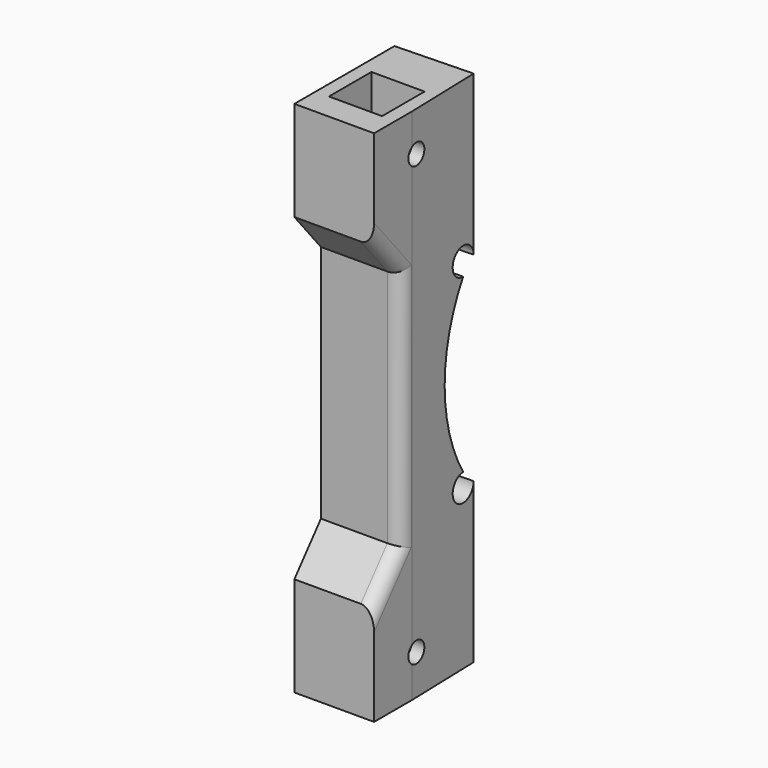
from build123d import *

# Parameters (mm, degrees)
PAD_DEPTH       = 80
POCKET_DEPTH    = 78
POCKET001_DEPTH = 408.7079232475
POCKET002_DEPTH = 408.4326470939
SKETCH004_W     = 433.609177
SKETCH004_H     = 149.2376851805
SKETCH004_W_2   = 114.034424
SKETCH004_H_2   = 150.6867891805
POCKET003_DEPTH = 80.001
SKETCH005_W     = 8
SKETCH005_H     = 8
POCKET004_DEPTH = 10
SKETCH006_W     = 8
SKETCH006_H     = 8
POCKET005_DEPTH = 10
SKETCH007_R     = 1.55
POCKET006_DEPTH = 12.001
POCKET007_DEPTH = 12.001
FILLET_R        = 2
FILLET001_R     = 2


with BuildPart() as part:
    # Sketch → Pad (new body)
    with BuildSketch(Plane.XY):
        Polygon((450, 0), (450, 90), (356, 87.18), (355.64, 99.18), (343.64, 98.82), (344, 86.82), (6, 76.68), (5.64, 88.6800000001), (-6.36, 88.3200000001), (-6, 76.32), (-50, 75), (-50, 0), align=None)
    extrude(amount=PAD_DEPTH)

    # Sketch001 (on Face14 of Pad) → Pocket (cut)
    with BuildSketch(Plane.XY.offset(80)):
        Polygon((-50, 15), (-50, 74), (450, 74), (450, 0), (356, 2.82), (356.3, 12.82), (344.3, 13.18), (344, 3.18), (6, 13.32), (6.3, 23.32), (-5.7, 23.68), (-6, 13.68), align=None)
    extrude(amount=-POCKET_DEPTH, mode=Mode.SUBTRACT)

    # Sketch002 (on Face26 of Pocket) → Pocket001 (cut, through all)
    with BuildSketch(Plane(origin=(355.5953641722, -10.6678609252, 0), x_dir=(0.0299865091, 0.9995503035, 0), z_dir=(0.9995503035, -0.0299865091, 0))):
        with BuildLine():
            ThreePointArc((23.4984280855, 56), (19.9988591841, 57.4495689014), (21.4484280855, 53.95))
            ThreePointArc((21.4484280855, 53.95), (17.8329435114, 41), (21.4484280855, 28.05))
            ThreePointArc((21.4484280855, 28.05), (19.9988591841, 24.5504310986), (23.4984280855, 26))
            Line((23.4984280855, 26), (23.4984280855, 56))
        make_face()
    extrude(amount=-POCKET001_DEPTH, mode=Mode.SUBTRACT)

    # Sketch003 (on Face14 of Pocket001) → Pocket002 (cut, through all)
    with BuildSketch(Plane(origin=(358.2929363573, 10.7487880907, 0), x_dir=(-0.0299865091, 0.9995503035, 0), z_dir=(0.9995503035, 0.0299865091, 0))):
        with BuildLine():
            ThreePointArc((88.470997005, 56), (84.9714281036, 57.4495689014), (86.420997005, 53.95))
            ThreePointArc((86.420997005, 53.95), (82.8055124309, 41), (86.420997005, 28.05))
            ThreePointArc((86.420997005, 28.05), (84.9714281036, 24.5504310986), (88.470997005, 26))
            Line((88.470997005, 26), (88.470997005, 56))
        make_face()
    extrude(amount=-POCKET002_DEPTH, mode=Mode.SUBTRACT)

    # Sketch004 (on Face7 of Pocket002) → Pocket003 (cut, through all)
    with BuildSketch(Plane.XY.offset(80)):
        with Locations((127.1954115, 57.2464115903)):
            Rectangle(SKETCH004_W, SKETCH004_H)
        with Locations((413.017212, 56.5218595903)):
            Rectangle(SKETCH004_W_2, SKETCH004_H_2)
    extrude(amount=-POCKET003_DEPTH, mode=Mode.SUBTRACT)

    # Sketch005 (on Face8 of Pocket003) → Pocket004 (cut)
    with BuildSketch(Plane.XY.offset(80)):
        with Locations((350, 88)):
            Rectangle(SKETCH005_W, SKETCH005_H)
        with Locations((350, 6)):
            Rectangle(SKETCH005_W, SKETCH005_H)
    extrude(amount=-POCKET004_DEPTH, mode=Mode.SUBTRACT)

    # Sketch006 (on Face1 of Pocket004) → Pocket005 (cut)
    with BuildSketch(Plane(origin=(0, 0, 0), x_dir=(1, 0, 0), z_dir=(0, 0, -1))):
        with Locations((350, -6)):
            Rectangle(SKETCH006_W, SKETCH006_H)
        with Locations((350, -88)):
            Rectangle(SKETCH006_W, SKETCH006_H)
    extrude(amount=-POCKET005_DEPTH, mode=Mode.SUBTRACT)

    # Sketch007 (on Face6 of Pocket005) → Pocket006 (cut, through all)
    with BuildSketch(Plane.YZ.offset(356)):
        with Locations((6, 74)):
            Circle(SKETCH007_R)
        with Locations((88, 74)):
            Circle(SKETCH007_R)
        with Locations((88, 8)):
            Circle(SKETCH007_R)
        with Locations((6, 8)):
            Circle(SKETCH007_R)
    extrude(amount=-POCKET006_DEPTH, mode=Mode.SUBTRACT)

    # Sketch008 (on Face6 of Pocket006) → Pocket007 (cut, through all)
    with BuildSketch(Plane.YZ.offset(356)):
        Polygon((80, 2), (119.955566, 2), (119.955566, -12.384934), (-14.175961, -12.384934), (-14.175961, 94.92028), (80, 94.92028), (80, 65), (85, 59), (85, 23), (80, 17), align=None)
    extrude(amount=-POCKET007_DEPTH, mode=Mode.SUBTRACT)

    # Fillet
    fillet_edges = [part.edges().sort_by_distance(p)[0] for p in [
        (356, 85, 41),
    ]]
    fillet(fillet_edges, radius=FILLET_R)

    # Fillet001
    fillet001_edges = [part.edges().sort_by_distance(p)[0] for p in [
        (356, 82.5, 20),
        (356, 82.5, 62),
    ]]
    fillet(fillet001_edges, radius=FILLET001_R)


solid = part.part
